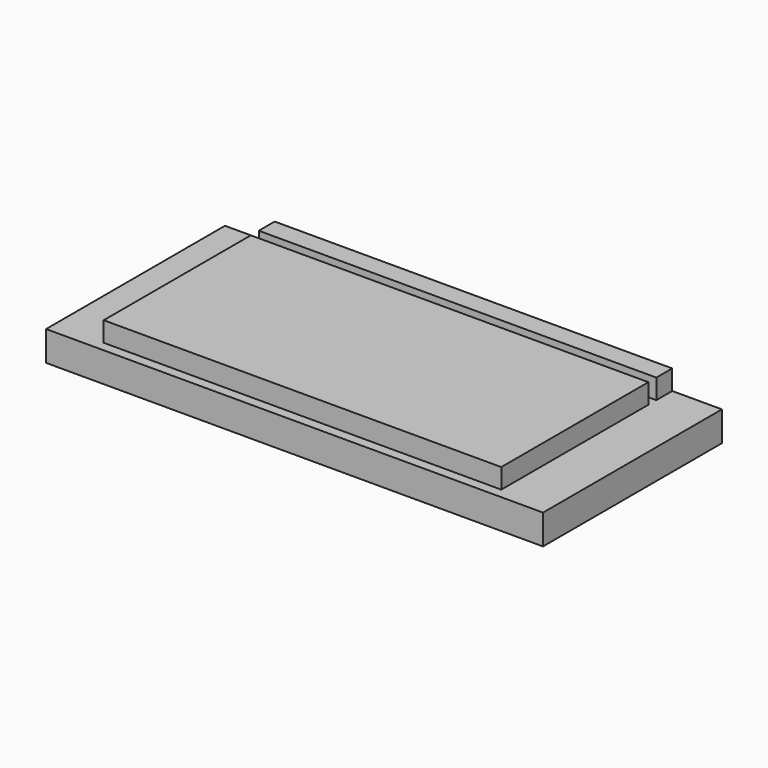
from build123d import *

# Parameters (mm, degrees)
F0_W     = 160
F0_H     = 8
F0_H_2   = 74
F1_DEPTH = 20
F2_DEPTH = 12


with BuildPart() as f1:
    # F0 (on Top) → F1 (new body)
    with BuildSketch(Plane.XY):
        with Locations((2.263863, 39.528583)):
            Rectangle(F0_W, F0_H)
        with Locations((2.263863, -5.471417)):
            Rectangle(F0_W, F0_H_2)
    extrude(amount=F1_DEPTH)


with BuildPart() as f2:
    # F0 (on Top) → F2 (new body)
    with BuildSketch(Plane.XY):
        Polygon((-77.736137, 43.528583), (-97.736137, 43.528583), (-97.736137, -46.471417), (102.263863, -46.471417), (102.263863, 43.528583), (82.263863, 43.528583), (82.263863, 35.528583), (-77.736137, 35.528583), align=None)
        with Locations((2.263863, -5.471417)):
            Rectangle(F0_W, F0_H_2, mode=Mode.SUBTRACT)
    extrude(amount=F2_DEPTH)


solid = Compound([f1.part, f2.part])
